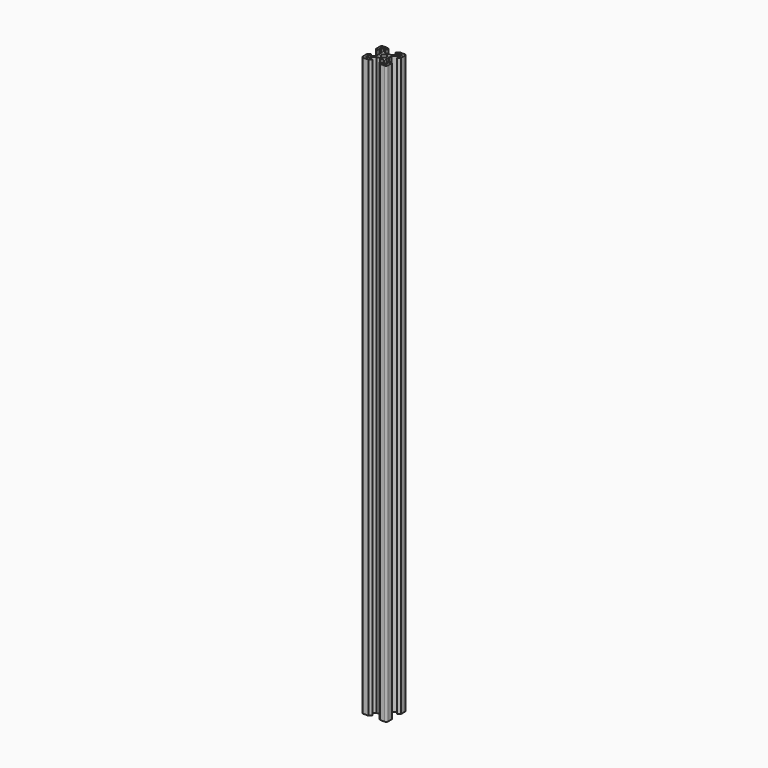
from build123d import *

# Parameters (mm, degrees)
F0_R     = 2.1
F1_DEPTH = 465


with BuildPart() as f1:
    # F0 (on Top) → F1 (new body)
    with BuildSketch(Plane.XY):
        with BuildLine():
            Line((19.194395, -0.407347), (19.194395, 3.452653))
            ThreePointArc((19.194395, 3.452653), (18.755055, 4.513314), (17.694395, 4.952653))
            Line((17.694395, 4.952653), (13.834395, 4.952653))
            Line((13.834395, 4.952653), (12.034395, 3.152653))
            Line((12.034395, 3.152653), (14.693734, 3.152653))
            Line((14.693734, 3.152653), (14.693734, 1.512653))
            Line((14.693734, 1.512653), (12.034395, -1.146686))
            Line((12.034395, -1.146686), (9.444395, -1.146686))
            Line((9.444395, -1.146686), (9.194395, -1.396686))
            Line((9.194395, -1.396686), (8.944395, -1.146686))
            Line((8.944395, -1.146686), (6.354395, -1.146686))
            Line((6.354395, -1.146686), (3.695055, 1.512653))
            Line((3.695055, 1.512653), (3.695055, 3.152653))
            Line((3.695055, 3.152653), (6.354395, 3.152653))
            Line((6.354395, 3.152653), (4.554395, 4.952653))
            Line((4.554395, 4.952653), (0.694395, 4.952653))
            ThreePointArc((0.694395, 4.952653), (-0.366266, 4.513314), (-0.805605, 3.452653))
            Line((-0.805605, 3.452653), (-0.805605, -0.407347))
            Line((-0.805605, -0.407347), (0.994395, -2.207347))
            Line((0.994395, -2.207347), (0.994395, 0.451993))
            Line((0.994395, 0.451993), (2.634395, 0.451993))
            Line((2.634395, 0.451993), (5.293734, -2.207347))
            Line((5.293734, -2.207347), (5.293734, -4.797347))
            Line((5.293734, -4.797347), (5.543734, -5.047347))
            Line((5.543734, -5.047347), (5.293734, -5.297347))
            Line((5.293734, -5.297347), (5.293734, -7.887347))
            Line((5.293734, -7.887347), (2.634395, -10.546686))
            Line((2.634395, -10.546686), (0.994395, -10.546686))
            Line((0.994395, -10.546686), (0.994395, -7.887347))
            Line((0.994395, -7.887347), (-0.805605, -9.687347))
            Line((-0.805605, -9.687347), (-0.805605, -13.547347))
            ThreePointArc((-0.805605, -13.547347), (-0.366266, -14.608007), (0.694395, -15.047347))
            Line((0.694395, -15.047347), (4.554395, -15.047347))
            Line((4.554395, -15.047347), (6.354395, -13.247347))
            Line((6.354395, -13.247347), (3.695055, -13.247347))
            Line((3.695055, -13.247347), (3.695055, -11.607347))
            Line((3.695055, -11.607347), (6.354395, -8.948007))
            Line((6.354395, -8.948007), (8.944395, -8.948007))
            Line((8.944395, -8.948007), (9.194395, -8.698007))
            Line((9.194395, -8.698007), (9.444395, -8.948007))
            Line((9.444395, -8.948007), (12.034395, -8.948007))
            Line((12.034395, -8.948007), (14.693734, -11.607347))
            Line((14.693734, -11.607347), (14.693734, -13.247347))
            Line((14.693734, -13.247347), (12.034395, -13.247347))
            Line((12.034395, -13.247347), (13.834395, -15.047347))
            Line((13.834395, -15.047347), (17.694395, -15.047347))
            ThreePointArc((17.694395, -15.047347), (18.755055, -14.608007), (19.194395, -13.547347))
            Line((19.194395, -13.547347), (19.194395, -9.687347))
            Line((19.194395, -9.687347), (17.394395, -7.887347))
            Line((17.394395, -7.887347), (17.394395, -10.546686))
            Line((17.394395, -10.546686), (15.754395, -10.546686))
            Line((15.754395, -10.546686), (13.095055, -7.887347))
            Line((13.095055, -7.887347), (13.095055, -5.297347))
            Line((13.095055, -5.297347), (12.845055, -5.047347))
            Line((12.845055, -5.047347), (13.095055, -4.797347))
            Line((13.095055, -4.797347), (13.095055, -2.207347))
            Line((13.095055, -2.207347), (15.754395, 0.451993))
            Line((15.754395, 0.451993), (17.394395, 0.451993))
            Line((17.394395, 0.451993), (17.394395, -2.207347))
            Line((17.394395, -2.207347), (19.194395, -0.407347))
        make_face()
        Polygon((2.625055, -12.677347), (2.625055, -13.247347), (0.994395, -13.247347), (0.994395, -11.616686), (1.564395, -11.616686), align=None, mode=Mode.SUBTRACT)
        Polygon((17.394395, -13.247347), (15.763734, -13.247347), (15.763734, -12.677347), (16.824395, -11.616686), (17.394395, -11.616686), align=None, mode=Mode.SUBTRACT)
        Polygon((1.564395, 1.521993), (0.994395, 1.521993), (0.994395, 3.152653), (2.625055, 3.152653), (2.625055, 2.582653), align=None, mode=Mode.SUBTRACT)
        with Locations((9.194395, -5.047347)):
            Circle(F0_R, mode=Mode.SUBTRACT)
        Polygon((15.763734, 2.582653), (15.763734, 3.152653), (17.394395, 3.152653), (17.394395, 1.521993), (16.824395, 1.521993), align=None, mode=Mode.SUBTRACT)
    extrude(amount=F1_DEPTH)


solid = f1.part
